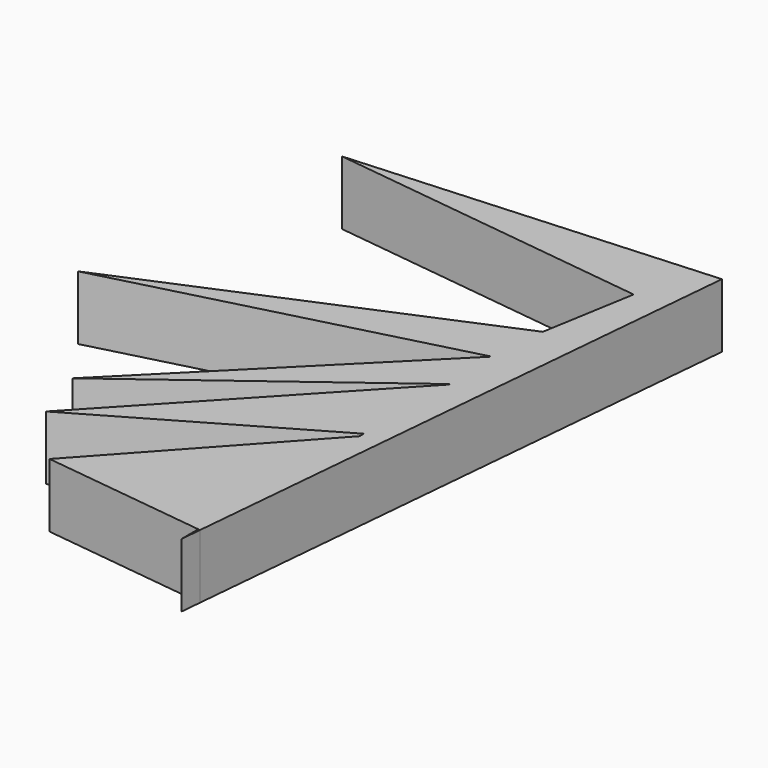
from build123d import *

# Parameters (mm, degrees)
F1_DEPTH = 25.4


with BuildPart() as f1:
    # F0 (on Top) → F1 (new body)
    with BuildSketch(Plane.XY):
        Polygon((99.490069, 58.291368), (98.893963, 58.039229), (98.893963, 12.895242), (100.236297, 13.898268), (98.893963, 12.464104), (98.893963, -29.808243), (102.997907, -27.43528), (98.893963, -31.945548), (98.893963, -111.925168), (99.639752, -112.016652), (120.770343, 120.569244), (-22.619633, 111.361951), (105.815612, 95.447481), align=None)
        Polygon((98.893963, 12.895242), (98.893963, 58.039229), (-38.321942, 0), (97.543553, 35.373725), (5.177082, -57.132415), align=None)
        Polygon((100.236297, 13.898268), (98.893963, 12.895242), (98.893963, 12.464104), align=None)
        Polygon((98.893963, -29.808243), (98.893963, 12.464104), (12.658387, -79.670966), align=None)
        Polygon((102.997907, -27.43528), (98.893963, -29.808243), (98.893963, -31.945548), align=None)
        Polygon((98.893963, -111.925168), (98.893963, -31.945548), (33.426806, -103.894494), align=None)
        Polygon((99.639752, -112.016652), (98.893963, -111.925168), (98.893963, -120.225601), align=None)
    extrude(amount=F1_DEPTH)


solid = f1.part
